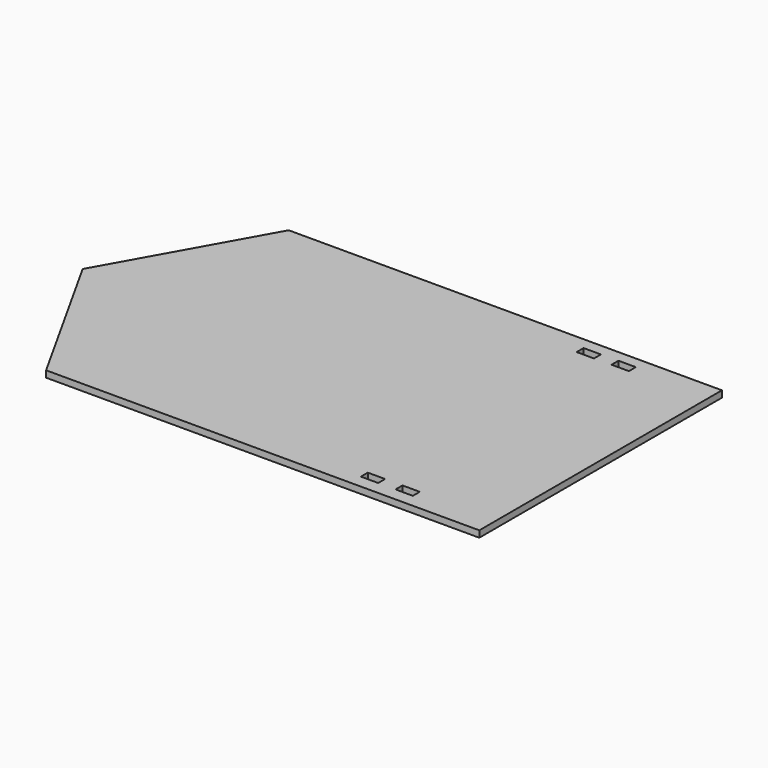
from build123d import *

# Parameters (mm, degrees)
F0_W     = 50.8
F0_H     = 25.4
F1_DEPTH = 19.177


with BuildPart() as f1:
    # F0 (on Top) → F1 (new body)
    with BuildSketch(Plane.XY):
        Polygon((942.269583, 485.910804), (-327.730417, 485.910804), (-576.028023, 41.410804), (-327.730417, -403.089196), (942.269583, -403.089196), align=None)
        with Locations((589.601648, -351.892287)):
            Rectangle(F0_W, F0_H, mode=Mode.SUBTRACT)
        with Locations((691.201648, -351.892287)):
            Rectangle(F0_W, F0_H, mode=Mode.SUBTRACT)
        with Locations((589.601648, 438.922962)):
            Rectangle(F0_W, F0_H, mode=Mode.SUBTRACT)
        with Locations((691.201648, 439.756531)):
            Rectangle(F0_W, F0_H, mode=Mode.SUBTRACT)
    extrude(amount=F1_DEPTH)


solid = f1.part
